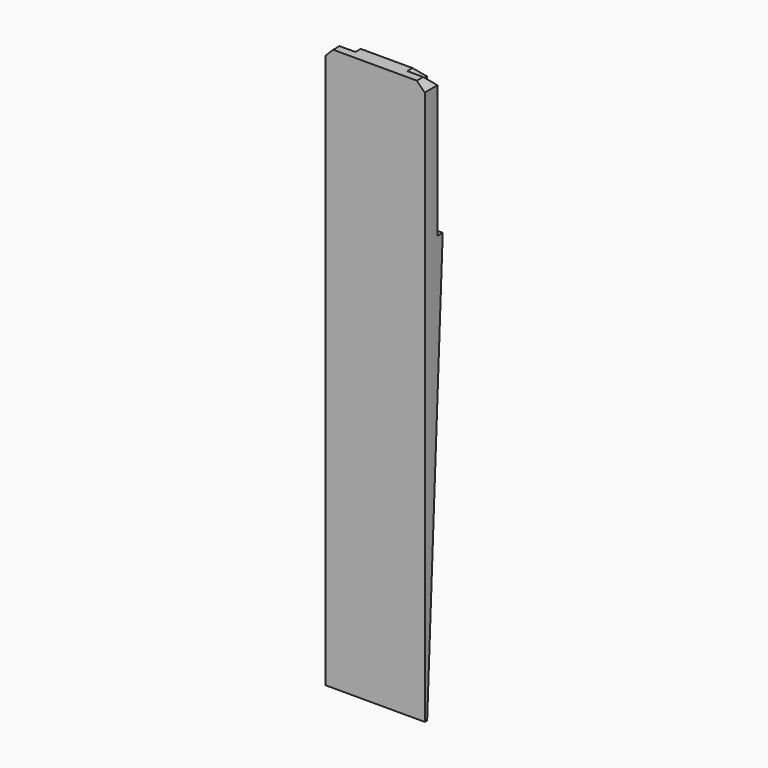
from build123d import *

# Parameters (mm, degrees)
PAD003_DEPTH            = 1.42
POCKET004_DEPTH         = 8.875
POCKET005_DEPTH         = 6.285457
CHAMFER002_SIZE         = 0.5
BODY001_PLACEMENT_ANGLE = 180


with BuildPart() as part:
    # Sketch010 → Pad003 (new body)
    with BuildSketch(Plane.XZ):
        Polygon((-3.142229, 35.5), (3.142229, 35.5), (3.142229, 44.375), (3.142229, 71), (-3.142229, 71), (-3.142229, 44.375), align=None)
    extrude(amount=PAD003_DEPTH)

    # Sketch011 (on Face1 of Pad003) → Pocket004 (cut)
    with BuildSketch(Plane(origin=(0, 0, 35.5), x_dir=(1, 0, 0), z_dir=(0, 0, -1))):
        Polygon((-2.142229, 1.42), (-2.142229, 1), (-7.142229, 1), (-7.142229, 4.921038), align=None)
        Polygon((7.142229, 4.921038), (2.142229, 1.42), (2.142229, 1), (7.142229, 1), align=None)
    extrude(amount=-POCKET004_DEPTH, mode=Mode.SUBTRACT)

    # Sketch012 (on Face9 of Pocket004) → Pocket005 (cut, through all)
    with BuildSketch(Plane(origin=(-3.142229, 0, 0), x_dir=(0, 0, -1), z_dir=(-1, 0, 0))):
        Polygon((-71, 0.19), (-71, 14.02), (-44.375, 1.42), align=None)
    extrude(amount=-POCKET005_DEPTH, mode=Mode.SUBTRACT)

    # Chamfer002
    chamfer002_edges = [part.edges().sort_by_distance(p)[0] for p in [
        (-2.642229, -1, 35.5),
        (-2.142229, -1.21, 35.5),
        (0, -1.42, 35.5),
        (2.142229, -1.21, 35.5),
        (2.642229, -1, 35.5),
        (-3.142229, -0.5, 35.5),
        (3.142229, -0.5, 35.5),
    ]]
    chamfer(chamfer002_edges, length=CHAMFER002_SIZE)


with BuildPart() as part_1:
    # Body001 placement: moved
    add(part.part.moved(Location((0, 25, 32))).rotate(Axis((0, 25, 32), (-1, 0, 0)), BODY001_PLACEMENT_ANGLE))


solid = part_1.part
